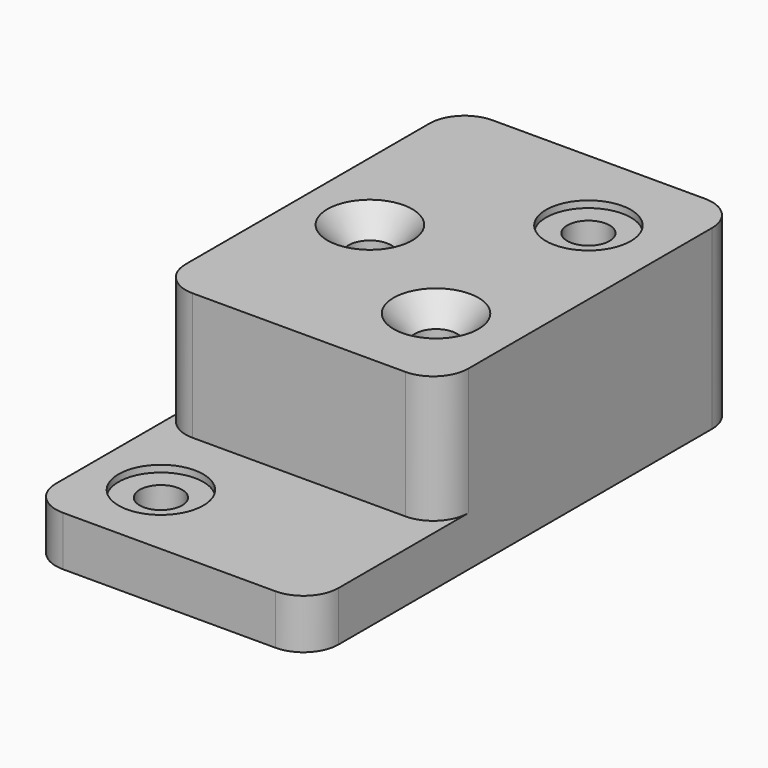
from build123d import *

# Parameters (mm, degrees)
F0_W           = 127
F0_H           = 168.402
F0_R           = 9.525
F1_DEPTH       = 79.502
F0_H_2         = 72.898
F2_DEPTH       = 22.352
F3_R           = 19.05
F3_R_2         = 9.525
F4_DEPTH       = 3.048
F6_D           = 19.05
F6_CSINK_D     = 38.1
F6_CSINK_ANGLE = 81
F7_R           = 19.05
F8_DEPTH       = 3.048
F9_R           = 15.748


with BuildPart() as f1:
    # F0 (on Top) → F1 (new body)
    with BuildSketch(Plane.XY):
        with Locations((63.5, 84.201)):
            Rectangle(F0_W, F0_H)
        with Locations((91.948, 41.402)):
            Circle(F0_R, mode=Mode.SUBTRACT)
        with Locations((31.75, 79.502)):
            Circle(F0_R, mode=Mode.SUBTRACT)
        with Locations((91.948, 127)):
            Circle(F0_R, mode=Mode.SUBTRACT)
    extrude(amount=F1_DEPTH)

    # F0 (on Top) → F2 (join)
    with BuildSketch(Plane.XY):
        with Locations((63.5, -36.449)):
            Rectangle(F0_W, F0_H_2)
        with Locations((31.75, -37.846)):
            Circle(F0_R, mode=Mode.SUBTRACT)
    extrude(amount=F2_DEPTH)

    # F3 (on face) → F4 (cut)
    with BuildSketch(Plane.XY.offset(79.502)):
        with Locations((91.948, 127)):
            Circle(F3_R)
        with Locations((91.948, 127)):
            Circle(F3_R_2, mode=Mode.SUBTRACT)
    extrude(amount=-F4_DEPTH, mode=Mode.SUBTRACT)

    # F6 (through all)
    with Locations(Plane.XY.offset(79.502)):
        with Locations((31.75, 79.502), (91.948, 41.402)):
            CounterSinkHole(F6_D / 2, F6_CSINK_D / 2, counter_sink_angle=F6_CSINK_ANGLE)

    # F7 (on face) → F8 (cut)
    with BuildSketch(Plane.XY.offset(22.352)):
        with Locations((31.75, -37.846)):
            Circle(F7_R)
    extrude(amount=-F8_DEPTH, mode=Mode.SUBTRACT)

    # F9
    f9_edges = [f1.edges().sort_by_distance(p)[0] for p in [
        (0, 168.402, 39.751),
        (127, 168.402, 39.751),
        (127, 0, 50.927),
        (0, 0, 50.927),
        (0, -72.898, 11.176),
        (127, -72.898, 11.176),
    ]]
    fillet(f9_edges, radius=F9_R)


solid = f1.part
